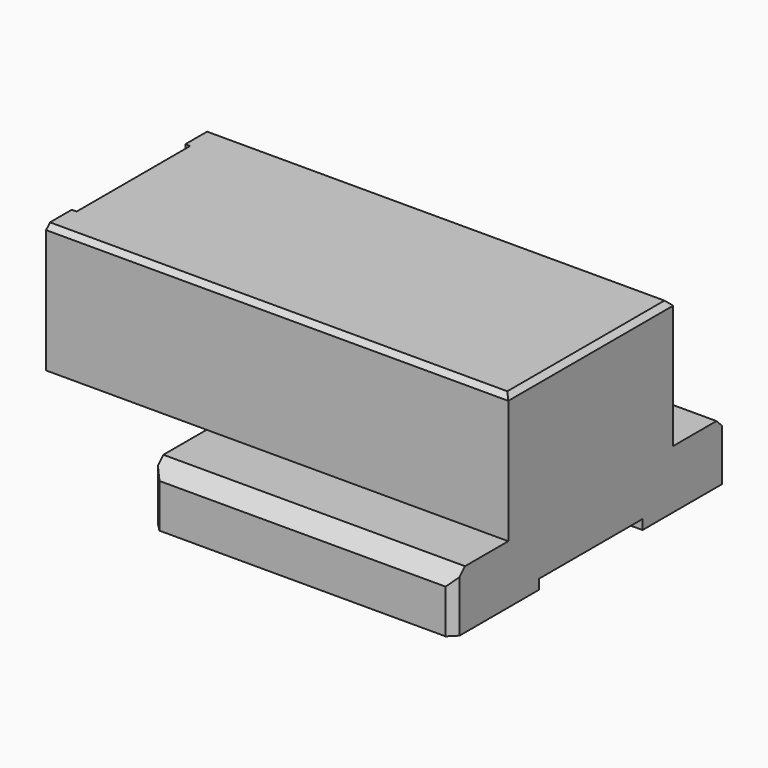
from build123d import *

# Parameters (mm, degrees)
F0_W          = 211.83
F0_H          = 132
F1_DEPTH      = 310
F1_DEPTH_BACK = 160
F2_W          = 32.95
F2_H          = 132
F2_R          = 6
F2_R_2        = 5
F3_DEPTH      = 5
F4_SIZE       = 5
F5_W          = 310
F5_H          = 353
F6_DEPTH      = 50
F7_SIZE       = 15
F8_W          = 310
F8_H          = 110
F8_R          = 11
F8_R_2        = 6
F9_DEPTH      = 10
F10_SIZE      = 8


with BuildPart() as f1:
    # F0 (on Right) → F1 (new body, two sides)
    with BuildSketch(Plane.YZ) as f1_sk:
        with Locations((0, -29.678499)):
            Rectangle(F0_W, F0_H)
    extrude(amount=F1_DEPTH)
    extrude(f1_sk.sketch, amount=-F1_DEPTH_BACK)

    # F2 (on face) → F3 (join)
    with BuildSketch(Plane(origin=(-160, 0, 0), x_dir=(0, -1, 0), z_dir=(-1, 0, 0))):
        with Locations((-89.44, -29.678499)):
            Rectangle(F2_W, F2_H)
        with Locations((-89.44, -79.678499)):
            Circle(F2_R, mode=Mode.SUBTRACT)
        with Locations((-89.44, -29.678499)):
            Circle(F2_R_2, mode=Mode.SUBTRACT)
        with Locations((-89.44, 20.321501)):
            Circle(F2_R, mode=Mode.SUBTRACT)
        with Locations((89.44, -29.678499)):
            Rectangle(F2_W, F2_H)
        with Locations((89.44, -79.678499)):
            Circle(F2_R, mode=Mode.SUBTRACT)
        with Locations((89.44, -29.678499)):
            Circle(F2_R_2, mode=Mode.SUBTRACT)
        with Locations((89.44, 20.321501)):
            Circle(F2_R, mode=Mode.SUBTRACT)
    extrude(amount=F3_DEPTH)

    # F4
    f4_edges = [f1.edges().sort_by_distance(p)[0] for p in [
        (310, 0, 36.321501),
        (72.5, -105.915, 36.321501),
        (72.5, 105.915, 36.321501),
    ]]
    chamfer(f4_edges, length=F4_SIZE)

    # F5 (on face) → F6 (join)
    with BuildSketch(Plane(origin=(0, 0, -95.678499), x_dir=(1, 0, 0), z_dir=(0, 0, -1))):
        with Locations((155, 0)):
            Rectangle(F5_W, F5_H)
    extrude(amount=F6_DEPTH)

    # F7
    f7_edges = [f1.edges().sort_by_distance(p)[0] for p in [
        (155, -176.5, -95.678499),
        (155, 176.5, -95.678499),
    ]]
    chamfer(f7_edges, length=F7_SIZE)

    # F8 (on face) → F9 (join)
    with BuildSketch(Plane(origin=(0, 0, -145.678499), x_dir=(1, 0, 0), z_dir=(0, 0, -1))):
        with Locations((155, 121.5)):
            Rectangle(F8_W, F8_H)
        with Locations((40.08206, 121.5)):
            Circle(F8_R, mode=Mode.SUBTRACT)
        with Locations((155, 121.5)):
            Circle(F8_R_2, mode=Mode.SUBTRACT)
        with Locations((269.91794, 121.5)):
            Circle(F8_R, mode=Mode.SUBTRACT)
        with Locations((155, -121.5)):
            Rectangle(F8_W, F8_H)
        with Locations((40.08206, -121.5)):
            Circle(F8_R, mode=Mode.SUBTRACT)
        with Locations((155, -121.5)):
            Circle(F8_R_2, mode=Mode.SUBTRACT)
        with Locations((269.91794, -121.5)):
            Circle(F8_R, mode=Mode.SUBTRACT)
    extrude(amount=F9_DEPTH)

    # F10
    f10_edges = [f1.edges().sort_by_distance(p)[0] for p in [
        (0, -176.5, -133.178499),
        (0, 176.5, -133.178499),
        (310, 176.5, -133.178499),
        (310, -176.5, -133.178499),
    ]]
    chamfer(f10_edges, length=F10_SIZE)


solid = f1.part
